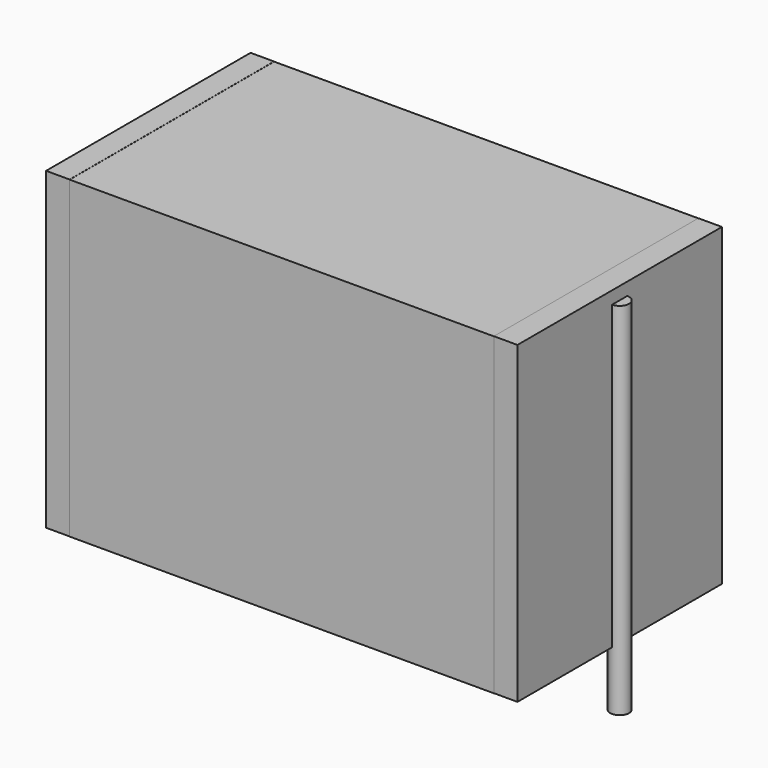
from build123d import *

# Parameters (mm, degrees)
SKETCH_W          = 20.25
SKETCH_H          = 12.2
PAD_DEPTH         = 15
SKETCH001_R       = 0.45
PAD001_DEPTH      = 14
PAD001_DEPTH_BACK = 3.2
SKETCH002_W       = 1.125
SKETCH002_H       = 12.2
PAD002_DEPTH      = 15


with BuildPart() as pad:
    # Sketch → Pad (new body)
    with BuildSketch(Plane.XY.offset(0.1)):
        with Locations((11.25, 0)):
            Rectangle(SKETCH_W, SKETCH_H)
    extrude(amount=PAD_DEPTH)


with BuildPart() as pad001:
    # Sketch001 → Pad001 (new body, two sides)
    with BuildSketch(Plane.XY.offset(0.5)) as pad001_sk:
        Circle(SKETCH001_R)
        with Locations((22.5, 0)):
            Circle(SKETCH001_R)
    extrude(amount=PAD001_DEPTH)
    extrude(pad001_sk.sketch, amount=-PAD001_DEPTH_BACK)


with BuildPart() as pad002:
    # Sketch002 → Pad002 (new body)
    with BuildSketch(Plane.XY.offset(0.105)):
        with Locations((0.5625, 0)):
            Rectangle(SKETCH002_W, SKETCH002_H)
        with Locations((21.9375, 0)):
            Rectangle(SKETCH002_W, SKETCH002_H)
    extrude(amount=PAD002_DEPTH)


solid = Compound([pad.part, pad001.part, pad002.part])
